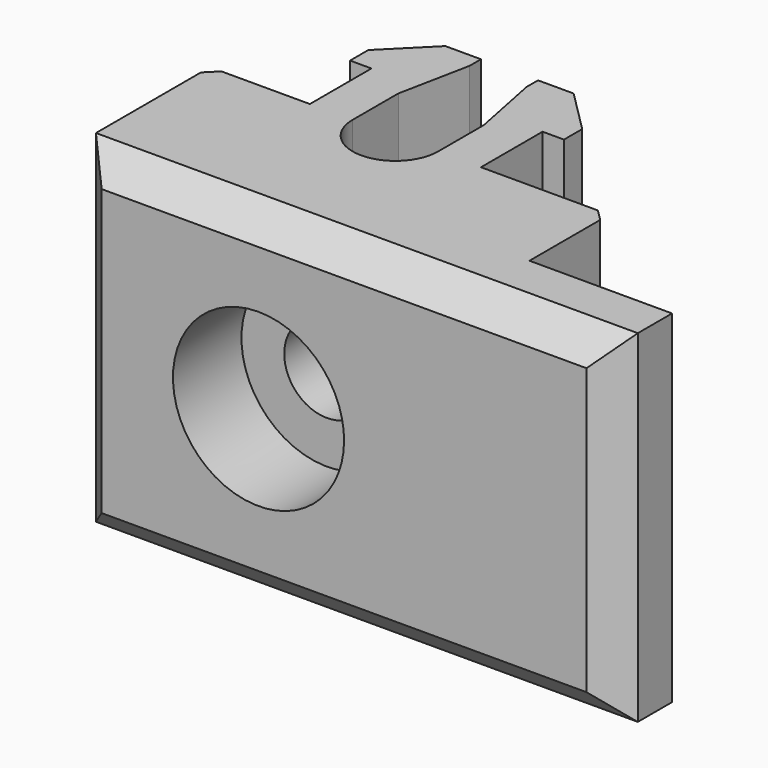
from build123d import *

# Parameters (mm, degrees)
CYLINDER005_R               = 1.1
CYLINDER005_DEPTH           = 10
CYLINDER005_PLACEMENT_ANGLE = 89.98
BOX017_W                    = 1
BOX017_H                    = 3
BOX017_DEPTH                = 12
CHAMFER019_SIZE2            = 0.5
CHAMFER019_SIZE             = 2.5
BOX016_W                    = 1
BOX016_H                    = 3
BOX016_DEPTH                = 12
CHAMFER018_SIZE2            = 0.5
CHAMFER018_SIZE             = 2.5
CYLINDER004_R               = 1.5
CYLINDER004_DEPTH           = 5
CYLINDER004_PLACEMENT_ANGLE = 89.98
CYLINDER003_R               = 1.65
CYLINDER003_DEPTH           = 2
CYLINDER003_PLACEMENT_ANGLE = 89.98
CYLINDER002_R               = 3
CYLINDER002_DEPTH           = 7
CYLINDER002_PLACEMENT_ANGLE = 89.98
BOX006_W                    = 1
BOX006_H                    = 2.7
BOX006_DEPTH                = 12
BOX003_W                    = 2.25
BOX003_H                    = 5
BOX003_DEPTH                = 12
CHAMFER016_SIZE             = 1.5
BOX007_W                    = 1
BOX007_H                    = 2.7
BOX007_DEPTH                = 12
BOX002_W                    = 2.25
BOX002_H                    = 5
BOX002_DEPTH                = 12
CHAMFER_SIZE                = 1.5
CYLINDER001_R               = 1.5
CYLINDER001_DEPTH           = 12
BOX005_W                    = 21
BOX005_H                    = 6
BOX005_DEPTH                = 12
BOX004_W                    = 19
BOX004_H                    = 6
BOX004_DEPTH                = 12
CHAMFER020_1_SIZE2          = 0.14
CHAMFER020_1_SIZE           = 1
CHAMFER020_2_SIZE2          = 0.14
CHAMFER020_2_SIZE           = 1
CHAMFER021_SIZE             = 1
CHAMFER022_SIZE             = 0.4


with BuildPart() as cylinder005:
    # Cylinder005 → Cylinder005 (new body)
    with BuildSketch(Plane.XY):
        Circle(CYLINDER005_R)
    extrude(amount=CYLINDER005_DEPTH)


with BuildPart() as cylinder005_1:
    # Cylinder005 placement: moved
    add(cylinder005.part.moved(Location((0, -0.002094, 6))).rotate(Axis((0, -0.002094, 6), (-1, 0, 0)), CYLINDER005_PLACEMENT_ANGLE))


with BuildPart() as chamfer019:
    # Box017 → Box017 (new body)
    with BuildSketch(Plane(origin=(1, 2, 0), x_dir=(1, 0, 0), z_dir=(0, 0, 1))):
        with Locations((0.5, 1.5)):
            Rectangle(BOX017_W, BOX017_H)
    extrude(amount=BOX017_DEPTH)

    # Chamfer019
    chamfer019_edges = [chamfer019.edges().sort_by_distance(p)[0] for p in [
        (1, 2, 6),
    ]]
    chamfer019_side = chamfer019.faces().sort_by_distance((1, 3.5, 6))[0]
    chamfer(chamfer019_edges, length=CHAMFER019_SIZE, length2=CHAMFER019_SIZE2, reference=chamfer019_side)


with BuildPart() as chamfer018:
    # Box016 → Box016 (new body)
    with BuildSketch(Plane(origin=(-2, 2, 0), x_dir=(1, 0, 0), z_dir=(0, 0, 1))):
        with Locations((0.5, 1.5)):
            Rectangle(BOX016_W, BOX016_H)
    extrude(amount=BOX016_DEPTH)

    # Chamfer018
    chamfer018_edges = [chamfer018.edges().sort_by_distance(p)[0] for p in [
        (-1, 2, 6),
    ]]
    chamfer018_side = chamfer018.faces().sort_by_distance((-1, 3.5, 6))[0]
    chamfer(chamfer018_edges, length=CHAMFER018_SIZE, length2=CHAMFER018_SIZE2, reference=chamfer018_side)


with BuildPart() as cylinder004:
    # Cylinder004 → Cylinder004 (new body)
    with BuildSketch(Plane.XY):
        Circle(CYLINDER004_R)
    extrude(amount=CYLINDER004_DEPTH)


with BuildPart() as cylinder004_1:
    # Cylinder004 placement: moved
    add(cylinder004.part.moved(Location((0, -0.997906, 6.000349))).rotate(Axis((0, -0.997906, 6.000349), (1, 0, 0)), CYLINDER004_PLACEMENT_ANGLE))


with BuildPart() as cylinder003:
    # Cylinder003 → Cylinder003 (new body)
    with BuildSketch(Plane.XY):
        Circle(CYLINDER003_R)
    extrude(amount=CYLINDER003_DEPTH)


with BuildPart() as cylinder003_1:
    # Cylinder003 placement: moved
    add(cylinder003.part.moved(Location((0, 1.002094, 5.999651))).rotate(Axis((0, 1.002094, 5.999651), (1, 0, 0)), CYLINDER003_PLACEMENT_ANGLE))


with BuildPart() as fusion007:
    # Cylinder002 → Cylinder002 (new body)
    with BuildSketch(Plane.XY):
        Circle(CYLINDER002_R)
    extrude(amount=CYLINDER002_DEPTH)


with BuildPart() as fusion007_1:
    # Cylinder002 placement: moved
    add(fusion007.part.moved(Location((0, -2.997905, 6.001047))).rotate(Axis((0, -2.997905, 6.001047), (1, 0, 0)), CYLINDER002_PLACEMENT_ANGLE))

    # Fusion007: union Cylinder004, Cylinder003
    add(cylinder004_1.part)
    add(cylinder003_1.part)


with BuildPart() as cube006:
    # Box006 → Box006 (new body)
    with BuildSketch(Plane(origin=(-4, 0, 0), x_dir=(1, 0, 0), z_dir=(0, 0, 1))):
        with Locations((0.5, 1.35)):
            Rectangle(BOX006_W, BOX006_H)
    extrude(amount=BOX006_DEPTH)


with BuildPart() as chamfer016:
    # Box003 → Box003 (new body)
    with BuildSketch(Plane(origin=(-3.75, 0, 0), x_dir=(1, 0, 0), z_dir=(0, 0, 1))):
        with Locations((1.125, 2.5)):
            Rectangle(BOX003_W, BOX003_H)
    extrude(amount=BOX003_DEPTH)

    # Cut011: cut Cube006
    add(cube006.part, mode=Mode.SUBTRACT)

    # Chamfer016
    chamfer016_edges = [chamfer016.edges().sort_by_distance(p)[0] for p in [
        (-3.75, 5, 6),
    ]]
    chamfer(chamfer016_edges, length=CHAMFER016_SIZE)


with BuildPart() as cube007:
    # Box007 → Box007 (new body)
    with BuildSketch(Plane(origin=(3, 0, 0), x_dir=(1, 0, 0), z_dir=(0, 0, 1))):
        with Locations((0.5, 1.35)):
            Rectangle(BOX007_W, BOX007_H)
    extrude(amount=BOX007_DEPTH)


with BuildPart() as chamfer_body:
    # Box002 → Box002 (new body)
    with BuildSketch(Plane(origin=(1.5, 0, 0), x_dir=(1, 0, 0), z_dir=(0, 0, 1))):
        with Locations((1.125, 2.5)):
            Rectangle(BOX002_W, BOX002_H)
    extrude(amount=BOX002_DEPTH)

    # Cut012: cut Cube007
    add(cube007.part, mode=Mode.SUBTRACT)

    # Chamfer
    chamfer_edges = [chamfer_body.edges().sort_by_distance(p)[0] for p in [
        (3.75, 5, 6),
    ]]
    chamfer(chamfer_edges, length=CHAMFER_SIZE)


with BuildPart() as cylinder001:
    # Cylinder001 → Cylinder001 (new body)
    with BuildSketch(Plane.XY):
        Circle(CYLINDER001_R)
    extrude(amount=CYLINDER001_DEPTH)


with BuildPart() as cube005:
    # Box005 → Box005 (new body)
    with BuildSketch(Plane(origin=(7.5, -3.5, 0), x_dir=(1, 0, 0), z_dir=(0, 0, 1))):
        with Locations((10.5, 3)):
            Rectangle(BOX005_W, BOX005_H)
    extrude(amount=BOX005_DEPTH)


with BuildPart() as plate_clip_r1:
    # Box004 → Box004 (new body)
    with BuildSketch(Plane(origin=(-6.5, -6, 0), x_dir=(1, 0, 0), z_dir=(0, 0, 1))):
        with Locations((9.5, 3)):
            Rectangle(BOX004_W, BOX004_H)
    extrude(amount=BOX004_DEPTH)

    # Cut: cut Cube005
    add(cube005.part, mode=Mode.SUBTRACT)

    # Cut013: cut Cylinder001
    add(cylinder001.part, mode=Mode.SUBTRACT)

    # Fusion006: union Chamfer016, Chamfer body
    add(chamfer016.part)
    add(chamfer_body.part)

    # Cut014: cut Fusion007
    add(fusion007_1.part, mode=Mode.SUBTRACT)

    # Chamfer020 1
    chamfer020_1_edges = [plate_clip_r1.edges().sort_by_distance(p)[0] for p in [
        (-1.5, 1.002094, 5.999651),
    ]]
    chamfer020_1_side = plate_clip_r1.faces().sort_by_distance((-1.5, 2.546976, 6.000003))[0]
    chamfer(chamfer020_1_edges, length=CHAMFER020_1_SIZE, length2=CHAMFER020_1_SIZE2, reference=chamfer020_1_side)

    # Chamfer020 2
    chamfer020_2_edges = [plate_clip_r1.edges().sort_by_distance(p)[0] for p in [
        (1.5, 1.002094, 5.999651),
    ]]
    chamfer020_2_side = plate_clip_r1.faces().sort_by_distance((1.5, 2.546976, 6.000003))[0]
    chamfer(chamfer020_2_edges, length=CHAMFER020_2_SIZE, length2=CHAMFER020_2_SIZE2, reference=chamfer020_2_side)

    # Fusion008: union Chamfer019, Chamfer018
    add(chamfer019.part)
    add(chamfer018.part)

    # Cut015: cut Cylinder005
    add(cylinder005_1.part, mode=Mode.SUBTRACT)

    # Chamfer021
    chamfer021_edges = [plate_clip_r1.edges().sort_by_distance(p)[0] for p in [
        (3, -6, 12),
        (12.5, -6, 6),
        (3, -6, 0),
        (-6.5, -6, 6),
    ]]
    chamfer(chamfer021_edges, length=CHAMFER021_SIZE)

    # Chamfer022
    chamfer022_edges = [plate_clip_r1.edges().sort_by_distance(p)[0] for p in [
        (-6.5, 0, 6),
        (7.5, 0, 6),
    ]]
    chamfer(chamfer022_edges, length=CHAMFER022_SIZE)


solid = plate_clip_r1.part
